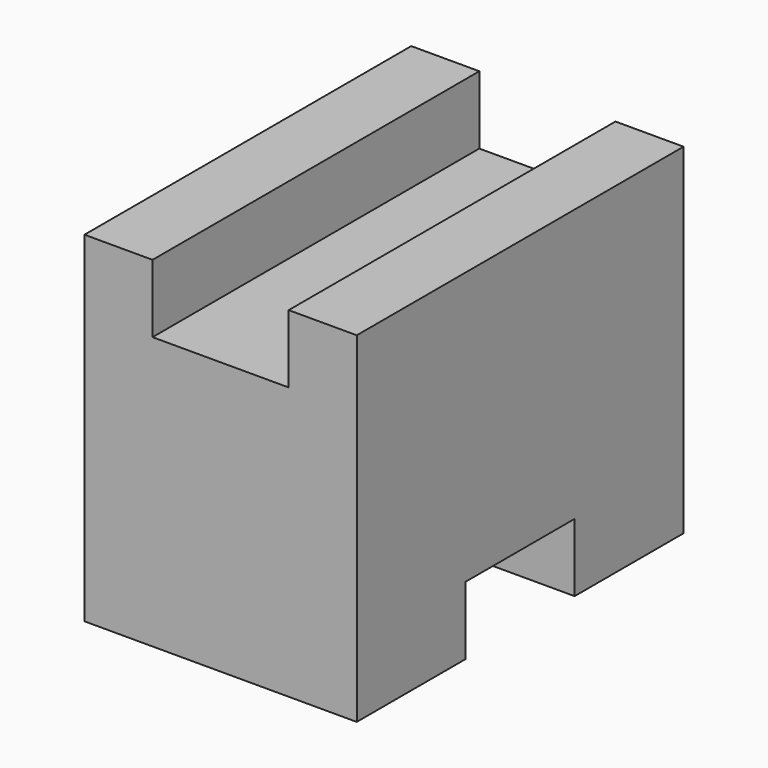
from build123d import *

# Parameters (mm, degrees)
F0_W     = 38.1
F0_H     = 31.75
F1_DEPTH = 25.4
F2_W     = 12.7
F2_H     = 6.35
F3_DEPTH = 25.4
F4_W     = 12.7
F4_H     = 6.35
F5_DEPTH = 25.4
F6_DEPTH = 25.4


with BuildPart() as f1:
    # F0 (on Right) → F1 (new body)
    with BuildSketch(Plane.YZ):
        with Locations((2.159, 15.875)):
            Rectangle(F0_W, F0_H)
    extrude(amount=F1_DEPTH)

    # F2 (on Right) → F3 (cut)
    with BuildSketch(Plane.YZ):
        with Locations((2.159, 3.175)):
            Rectangle(F2_W, F2_H)
    extrude(amount=F3_DEPTH, mode=Mode.SUBTRACT)

    # F4 (on Front) → F5 (cut)
    with BuildSketch(Plane.XZ):
        with Locations((12.7, 28.575)):
            Rectangle(F4_W, F4_H)
    extrude(amount=-F5_DEPTH, mode=Mode.SUBTRACT)

    # F4 (on Front) → F6 (cut)
    with BuildSketch(Plane.XZ):
        with Locations((12.7, 28.575)):
            Rectangle(F4_W, F4_H)
    extrude(amount=F6_DEPTH, mode=Mode.SUBTRACT)


solid = f1.part
